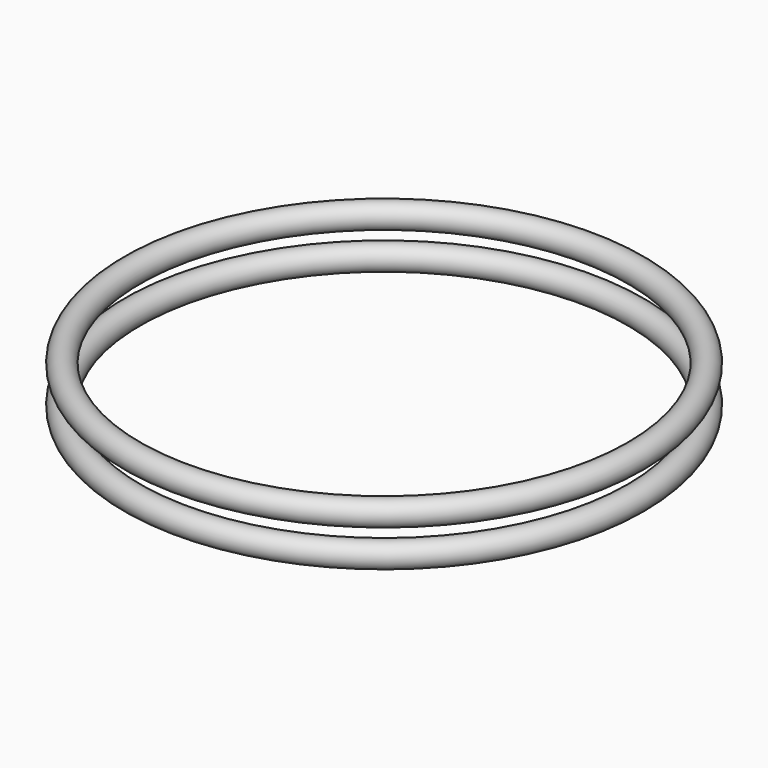
from build123d import *

# Parameters (mm, degrees)
TORUS001_R = 1.5
TORUS_R    = 1.5


with BuildPart() as torus001:
    # Torus001 → Torus001 (revolve)
    with BuildSketch(Plane(origin=(0, 0, 8.25), x_dir=(1, 0, 0), z_dir=(0, -1, 0))):
        with Locations((30.75, 0)):
            Circle(TORUS001_R)
    revolve(axis=Axis((0, 0, 8.25), (0, 0, 1)))


with BuildPart() as obj1:
    # Torus → Torus (revolve)
    with BuildSketch(Plane(origin=(0, 0, 3.75), x_dir=(1, 0, 0), z_dir=(0, -1, 0))):
        with Locations((30.75, 0)):
            Circle(TORUS_R)
    revolve(axis=Axis((0, 0, 3.75), (0, 0, 1)))

    # Fusion: union Torus001
    add(torus001.part)


solid = obj1.part
